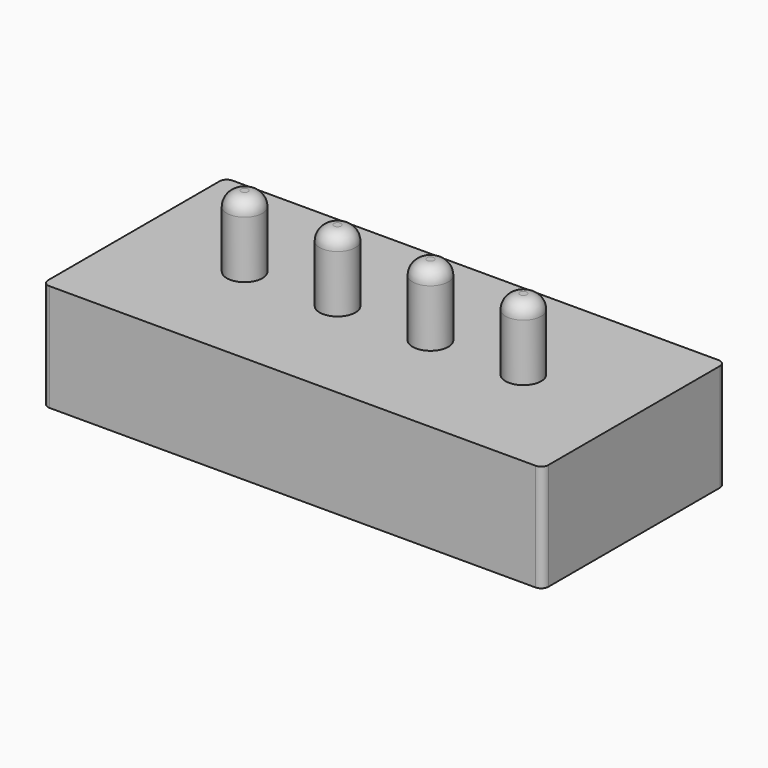
from build123d import *

# Parameters (mm, degrees)
F1_DEPTH = 15
F2_R     = 2.5
F3_DEPTH = 10
F4_R     = 2


with BuildPart() as f1:
    # F0 (on Top) → F1 (new body)
    with BuildSketch(Plane.XY):
        with BuildLine():
            Line((34, 16), (-34, 16))
            ThreePointArc((-34, 16), (-34.707107, 15.707107), (-35, 15))
            Line((-35, 15), (-35, -15))
            ThreePointArc((-35, -15), (-34.707107, -15.707107), (-34, -16))
            Line((-34, -16), (34, -16))
            ThreePointArc((34, -16), (34.707107, -15.707107), (35, -15))
            Line((35, -15), (35, 15))
            ThreePointArc((35, 15), (34.707107, 15.707107), (34, 16))
        make_face()
        with BuildLine():
            Line((34, 16), (-34, 16))
            ThreePointArc((-34, 16), (-34.707107, 15.707107), (-35, 15))
            Line((-35, 15), (-35, -15))
            ThreePointArc((-35, -15), (-34.707107, -15.707107), (-34, -16))
            Line((-34, -16), (34, -16))
            ThreePointArc((34, -16), (34.707107, -15.707107), (35, -15))
            Line((35, -15), (35, 15))
            ThreePointArc((35, 15), (34.707107, 15.707107), (34, 16))
        make_face()
    extrude(amount=-F1_DEPTH)

    # F2 (on face) → F3 (join)
    with BuildSketch(Plane.XY):
        with Locations((-19.5, 0)):
            Circle(F2_R)
        with Locations((-6.5, 0)):
            Circle(F2_R)
        with Locations((6.5, 0)):
            Circle(F2_R)
        with Locations((19.5, 0)):
            Circle(F2_R)
    extrude(amount=F3_DEPTH)

    # F4
    f4_edges = [f1.edges().sort_by_distance(p)[0] for p in [
        (17, 0, 10),
        (4, 0, 10),
        (-9, 0, 10),
        (-22, 0, 10),
    ]]
    fillet(f4_edges, radius=F4_R)


solid = f1.part
